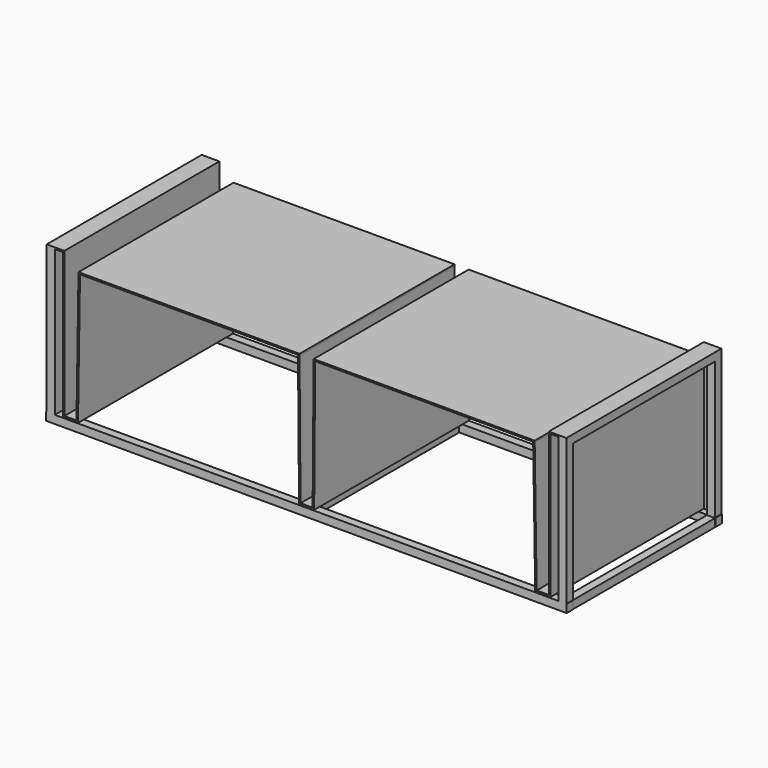
from build123d import *

# Parameters (mm, degrees)
F0_W      = 4.7625
F0_H      = 457.2
F1_DEPTH  = 609.6
F2_W      = 50.8
F2_H      = 4.7625
F3_DEPTH  = 609.6
F4_DEPTH  = 609.6
F5_W      = 25.4
F5_H      = 461.9625
F6_DEPTH  = 25.4
F8_DEPTH  = 25.4
F9_W      = 1637.8936
F9_H      = 25.4
F10_DEPTH = 25.4
F11_W     = 25.4
F11_H     = 433.81924
F12_DEPTH = 25.4
F13_DEPTH = 25.4
F14_W     = 25.4
F14_H     = 432.793116
F15_DEPTH = 25.4
F16_W     = 1636.5474
F16_H     = 25.4
F17_DEPTH = 25.4
F18_W     = 25.4
F18_H     = 609.6
F19_DEPTH = 25.4
F20_W     = 50.8
F20_H     = 453.430616
F21_DEPTH = 4.7625
F22_W     = 25.4
F22_H     = 457.2
F23_DEPTH = 4.7625


with BuildPart() as f1:
    # F0 (on Front) → F1 (new body)
    with BuildSketch(Plane.XZ):
        with Locations((-455.648437, -32.960023)):
            Rectangle(F0_W, F0_H)
        Polygon((-415.167187, -261.560023), (-453.267187, -261.560023), (-458.029687, -261.560023), (-458.029687, -266.322523), (-415.167187, -266.981946), align=None)
        Polygon((-408.817187, 151.189977), (-415.167187, -261.560023), (-415.167187, -266.981946), (-410.404687, -266.981946), (-404.044542, 146.427477), (-408.817187, 146.427477), align=None)
        Polygon((-403.971273, 151.189977), (-408.817187, 151.189977), (-408.817187, 146.427477), (-404.044542, 146.427477), align=None)
        Polygon((286.507813, 151.189977), (-403.971273, 151.189977), (-404.044542, 146.427477), (281.781948, 146.427477), (286.544448, 146.427477), align=None)
        Polygon((289.682813, -261.560023), (286.544448, 146.427477), (281.781948, 146.427477), (284.920313, -261.560023), align=None)
        Polygon((327.782813, -261.560023), (289.682813, -261.560023), (284.920313, -261.560023), (284.920313, -266.322523), (327.782813, -266.322523), align=None)
        Polygon((330.957813, 151.189977), (327.782813, -261.560023), (327.782813, -266.322523), (332.545172, -266.359156), (335.720454, 146.427477), (330.957813, 146.427477), align=None)
        Polygon((335.757089, 151.189977), (330.957813, 151.189977), (330.957813, 146.427477), (335.720454, 146.427477), align=None)
        Polygon((1021.520313, 151.189977), (335.757089, 151.189977), (335.720454, 146.427477), (1021.593582, 146.427477), align=None)
        Polygon((1026.282813, 151.189977), (1021.520313, 151.189977), (1021.593582, 146.427477), (1026.356082, 146.427477), align=None)
        Polygon((1026.356082, 146.427477), (1021.593582, 146.427477), (1027.870313, -261.560023), (1032.632813, -261.560023), align=None)
        Polygon((1032.632813, -261.560023), (1027.870313, -261.560023), (1027.870313, -266.322523), (1070.732813, -266.322523), (1070.732813, -261.560023), align=None)
        Polygon((1070.732813, 190.877477), (1070.732813, -261.560023), (1070.732813, -266.322523), (1075.495313, -266.322523), (1075.495313, 190.877477), align=None)
    extrude(amount=-F1_DEPTH)

    # F2 (on face) → F3 (join)
    with BuildSketch(Plane.XZ):
        with Locations((-483.429687, 193.258727)):
            Rectangle(F2_W, F2_H)
    extrude(amount=-F3_DEPTH)

    # F2 (on face) → F4 (join)
    with BuildSketch(Plane.XZ):
        with Locations((-483.429687, 193.258727)):
            Rectangle(F2_W, F2_H)
        with Locations((1100.895313, 188.496227)):
            Rectangle(F2_W, F2_H)
    extrude(amount=-F4_DEPTH)

    # F5 (on face) → F6 (join)
    with BuildSketch(Plane.XZ):
        with Locations((-496.129687, -40.103773)):
            Rectangle(F5_W, F5_H)
        with Locations((1113.595313, -44.866273)):
            Rectangle(F5_W, F5_H)
    extrude(amount=-F6_DEPTH)

    # F5 (on face) → F8 (join)
    with BuildSketch(Plane.XZ):
        with Locations((-496.129687, -40.103773)):
            Rectangle(F5_W, F5_H)
        with Locations((1113.595313, -44.866273)):
            Rectangle(F5_W, F5_H)
    extrude(amount=-F8_DEPTH)

    # F9 (on face) → F10 (join)
    with BuildSketch(Plane.XZ):
        with Locations((308.156171, -281.041763)):
            Rectangle(F9_W, F9_H)
    extrude(amount=-F10_DEPTH)

    # F11 (on face) → F12 (join)
    with BuildSketch(Plane.YZ.offset(1126.295313)):
        Polygon((609.6, 190.877477), (0, 190.877477), (0, 165.477477), (584.2, 165.477477), (609.6, 165.477477), align=None)
        with Locations((596.9, -51.432143)):
            Rectangle(F11_W, F11_H)
        Polygon((609.6, -293.741763), (609.6, -268.341763), (584.2, -268.341763), (25.4, -268.341763), (25.4, -293.741763), align=None)
    extrude(amount=-F12_DEPTH)

    # F11 (on face) → F13 (join)
    with BuildSketch(Plane.YZ.offset(1126.295313)):
        Polygon((609.6, 190.877477), (0, 190.877477), (0, 165.477477), (584.2, 165.477477), (609.6, 165.477477), align=None)
        with Locations((596.9, -51.432143)):
            Rectangle(F11_W, F11_H)
        Polygon((609.6, -293.741763), (609.6, -268.341763), (584.2, -268.341763), (25.4, -268.341763), (25.4, -293.741763), align=None)
    extrude(amount=-F13_DEPTH)

    # F14 (on face) → F15 (join)
    with BuildSketch(Plane(origin=(-508.829687, 0, 0), x_dir=(0, -1, 0), z_dir=(-1, 0, 0))):
        Polygon((-25.4, 165.477477), (-25.4, 190.877477), (-609.6, 190.877477), (-609.6, 165.477477), (-584.2, 165.477477), (-50.8, 165.477477), align=None)
        with Locations((-38.1, -50.919081)):
            Rectangle(F14_W, F14_H)
        with Locations((-596.9, -50.919081)):
            Rectangle(F14_W, F14_H)
        Polygon((-25.4, -292.715639), (-25.4, -267.315639), (-50.8, -267.315639), (-584.2, -267.315639), (-609.6, -267.315639), (-609.6, -292.715639), align=None)
    extrude(amount=-F15_DEPTH)

    # F16 (on face) → F17 (join)
    with BuildSketch(Plane(origin=(0, 0, -292.715639), x_dir=(1, 0, 0), z_dir=(0, 0, -1))):
        with Locations((309.444013, -596.9)):
            Rectangle(F16_W, F16_H)
    extrude(amount=-F17_DEPTH)

    # F18 (on face) → F19 (join)
    with BuildSketch(Plane(origin=(0, 0, -293.741763), x_dir=(1, 0, 0), z_dir=(0, 0, -1))):
        with Locations((307.752342, -304.8)):
            Rectangle(F18_W, F18_H)
    extrude(amount=-F19_DEPTH)

    # F20 (on face) → F21 (join)
    with BuildSketch(Plane(origin=(0, 609.6, 0), x_dir=(-1, 0, 0), z_dir=(0, 1, 0))):
        with Locations((-1100.895313, -40.600331)):
            Rectangle(F20_W, F20_H)
    extrude(amount=-F21_DEPTH)

    # F22 (on face) → F23 (join)
    with BuildSketch(Plane(origin=(0, 609.6, 0), x_dir=(-1, 0, 0), z_dir=(0, 1, 0))):
        with Locations((470.729687, -37.722523)):
            Rectangle(F22_W, F22_H)
    extrude(amount=-F23_DEPTH)


solid = f1.part
